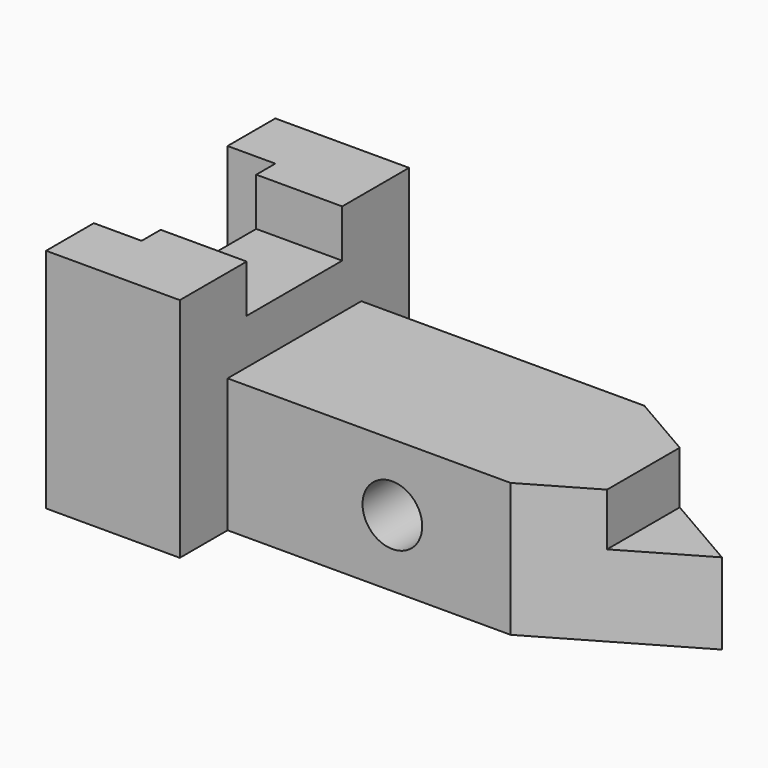
from build123d import *

# Parameters (mm, degrees)
F1_DEPTH = 48.26
F3_DEPTH = 18.288
F5_DEPTH = 28.448
F7_DEPTH = 11.176
F8_R     = 6.35
F9_DEPTH = 35.56


with BuildPart() as f1:
    # F0 (on Top) → F1 (new body)
    with BuildSketch(Plane.XY):
        Polygon((-28.448, 0), (0, 0), (0, 30.48), (0, 60.96), (-28.448, 60.96), (-28.448, 48.26), (-18.288, 48.26), (-18.288, 43.18), (-18.288, 30.48), (-18.288, 17.78), (-18.288, 12.7), (-28.448, 12.7), align=None)
    extrude(amount=F1_DEPTH)

    # F2 (on face) → F3 (cut, through all)
    with BuildSketch(Plane.YZ):
        Polygon((17.78, 38.1), (30.48, 38.1), (43.18, 38.1), (43.18, 48.26), (17.78, 48.26), align=None)
    extrude(amount=-F3_DEPTH, mode=Mode.SUBTRACT)

    # F4 (on Top) → F5 (join)
    with BuildSketch(Plane.XY):
        Polygon((0, 30.48), (0, 12.7), (60.198, 12.7), (90.932, 30.48), (60.198, 48.26), (0, 48.26), align=None)
    extrude(amount=F5_DEPTH)

    # F6 (on face) → F7 (cut)
    with BuildSketch(Plane.XY.offset(28.448)):
        Polygon((74.22266, 20.81344), (90.932, 30.48), (74.22266, 40.14656), align=None)
    extrude(amount=-F7_DEPTH, mode=Mode.SUBTRACT)

    # F8 (on face) → F9 (cut, through all)
    with BuildSketch(Plane.XZ.offset(-12.7)):
        with Locations((35.052, 14.224)):
            Circle(F8_R)
    extrude(amount=-F9_DEPTH, mode=Mode.SUBTRACT)


solid = f1.part
